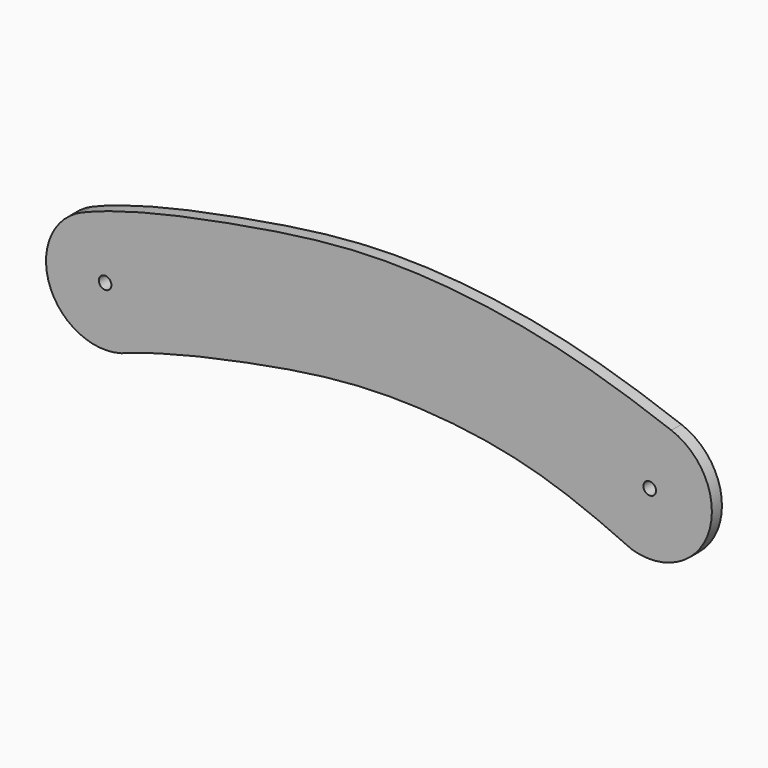
from build123d import *

# Parameters (mm, degrees)
F0_R     = 1.6
F1_DEPTH = 3.2


with BuildPart() as f1:
    # F0 (on Front) → F1 (new body)
    with BuildSketch(Plane.XZ):
        with BuildLine():
            ThreePointArc((65, -30), (84.4909209321, -19.8303069774), (75, 0))
            add(Edge.make_bspline(
                [(75, 0), (61.5952292187, 4.9886142034), (37.1909746484, 12.1982180517), (-0.509892686, 15.4981652254), (-33.9044498091, 10.8823891046), (-64.5015065093, 4.4709090209), (-75, 0)],
                knots=[0, 0, 0, 0, 0.2564704456, 0.5004269004, 0.7397715544, 1, 1, 1, 1], degree=3))
            ThreePointArc((-75, 0), (-83.2812575658, -18.8377692675), (-65, -28.2842712475))
            add(Edge.make_bspline(
                [(65, -30), (53.5972555683, -24.7931788831), (35.2792433223, -17.618261769), (-0.5042261959, -14.4622858619), (-31.312571712, -19.2715068031), (-55.1656504044, -24.6562241065), (-65, -28.2842712475)],
                knots=[0, 0, 0, 0, 0.2481872542, 0.5014115597, 0.7464764169, 1, 1, 1, 1], degree=3))
        make_face()
        with Locations((-69.1112213074, -13.8279049035)):
            Circle(F0_R, mode=Mode.SUBTRACT)
        with Locations((69.4819787297, -14.8273262432)):
            Circle(F0_R, mode=Mode.SUBTRACT)
    extrude(amount=F1_DEPTH)


solid = f1.part
